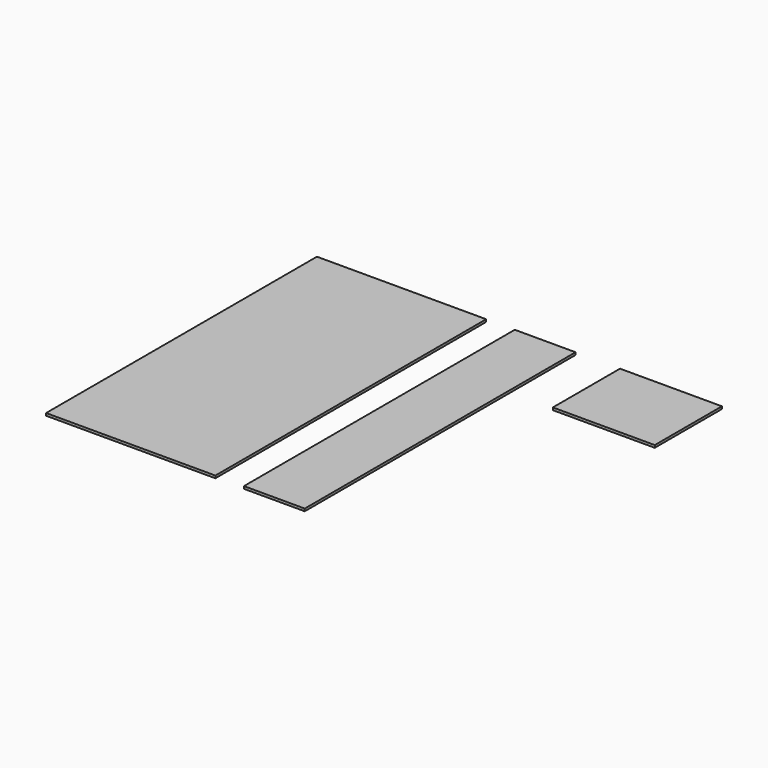
from build123d import *

# Parameters (mm, degrees)
F0_W     = 1250
F0_H     = 2500
F1_DEPTH = 18
F2_W     = 449
F2_H     = 2500
F3_DEPTH = 18
F4_W     = 752.5
F4_H     = 620
F5_DEPTH = 18


with BuildPart() as f1:
    # F0 (on Top) → F1 (new body)
    with BuildSketch(Plane.XY):
        with Locations((-625, -1250)):
            Rectangle(F0_W, F0_H)
    extrude(amount=F1_DEPTH)


with BuildPart() as f3:
    # F2 (on Top) → F3 (new body)
    with BuildSketch(Plane.XY):
        with Locations((435.574821, -1250)):
            Rectangle(F2_W, F2_H)
    extrude(amount=F3_DEPTH)


with BuildPart() as f5:
    # F4 (on Top) → F5 (new body)
    with BuildSketch(Plane.XY):
        with Locations((1364.566377, -310)):
            Rectangle(F4_W, F4_H)
    extrude(amount=F5_DEPTH)


solid = Compound([f1.part, f3.part, f5.part])
